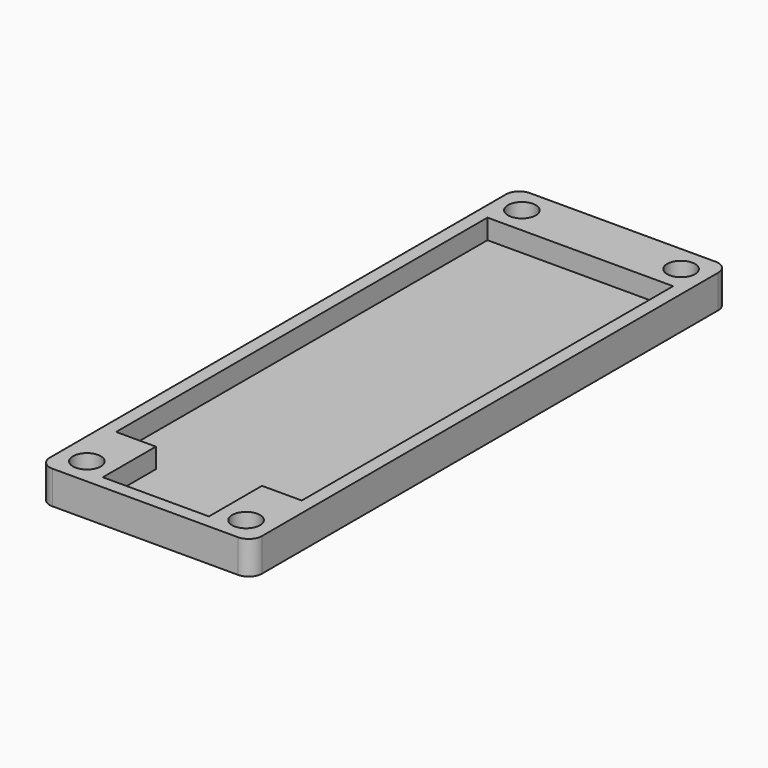
from build123d import *

# Parameters (mm, degrees)
EXTRUDE001_DEPTH = 3
SKETCH_W         = 32
SKETCH_H         = 90
SKETCH_R         = 2.1
EXTRUDE_DEPTH    = 5
FILLET_R         = 2


with BuildPart() as extrude001:
    # Sketch001 (on Face5 of Fillet) → Extrude001 (new body)
    with BuildSketch(Plane.XY.offset(5)):
        Polygon((14, 37), (14, -33), (8, -33), (8, -43), (-8, -43), (-8, -33), (-14, -33), (-14, 37), align=None)
    extrude(amount=-EXTRUDE001_DEPTH)


with BuildPart() as cut:
    # Sketch → Extrude (new body)
    with BuildSketch(Plane.XY):
        Rectangle(SKETCH_W, SKETCH_H)
        with Locations((-12, 41)):
            Circle(SKETCH_R, mode=Mode.SUBTRACT)
        with Locations((12, 41)):
            Circle(SKETCH_R, mode=Mode.SUBTRACT)
        with Locations((-12, -41)):
            Circle(SKETCH_R, mode=Mode.SUBTRACT)
        with Locations((12, -41)):
            Circle(SKETCH_R, mode=Mode.SUBTRACT)
    extrude(amount=EXTRUDE_DEPTH)

    # Fillet
    fillet_edges = [cut.edges().sort_by_distance(p)[0] for p in [
        (-16, 45, 2.5),
        (16, 45, 2.5),
        (16, -45, 2.5),
        (-16, -45, 2.5),
    ]]
    fillet(fillet_edges, radius=FILLET_R)

    # Cut: cut Extrude001
    add(extrude001.part, mode=Mode.SUBTRACT)


solid = cut.part
